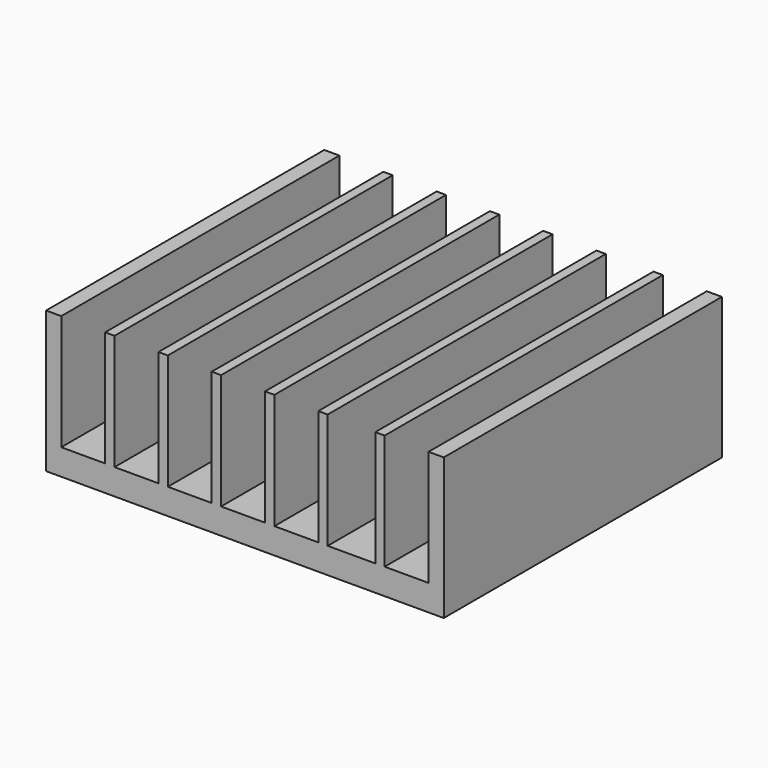
from build123d import *

# Parameters (mm, degrees)
F0_W     = 31.28
F0_H     = 27.35
F1_DEPTH = 11.1252
F2_W     = 3.4544
F2_H     = 9.0932
F2_W_2   = 3.7464
F2_H_2   = 9.0805
F3_DEPTH = 27.351


with BuildPart() as f1:
    # F0 (on Top) → F1 (new body)
    with BuildSketch(Plane.XY):
        with Locations((-15.64, 13.675)):
            Rectangle(F0_W, F0_H)
    extrude(amount=F1_DEPTH)

    # F2 (on face) → F3 (cut, through all)
    with BuildSketch(Plane.XZ):
        with Locations((-24.168, 6.5786)):
            Rectangle(F2_W, F2_H)
        with Locations((-19.977, 6.5786)):
            Rectangle(F2_W, F2_H)
        with Locations((-15.786, 6.5786)):
            Rectangle(F2_W, F2_H)
        with Locations((-11.595, 6.5786)):
            Rectangle(F2_W, F2_H)
        with Locations((-7.258, 6.5786)):
            Rectangle(F2_W_2, F2_H)
        with Locations((-2.921, 6.58495)):
            Rectangle(F2_W, F2_H_2)
        with Locations((-28.359, 6.58495)):
            Rectangle(F2_W, F2_H_2)
    extrude(amount=-F3_DEPTH, mode=Mode.SUBTRACT)


solid = f1.part
